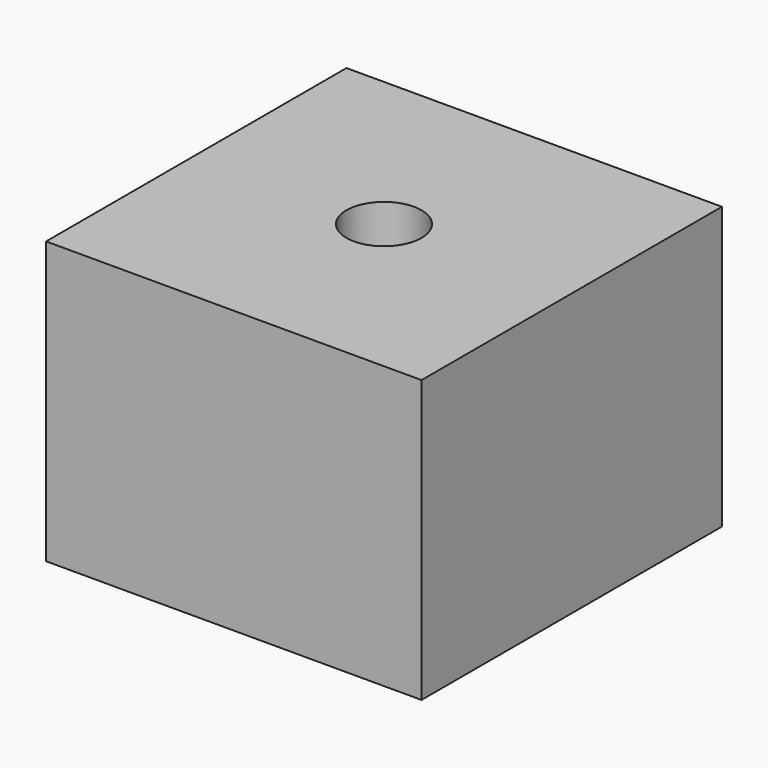
from build123d import *

# Parameters (mm, degrees)
CYLINDER_R     = 0.6
CYLINDER_DEPTH = 10
BOX008_W       = 6
BOX008_H       = 6
BOX008_DEPTH   = 4.5


with BuildPart() as hole:
    # Cylinder → Cylinder (new body)
    with BuildSketch(Plane.XY):
        Circle(CYLINDER_R)
    extrude(amount=CYLINDER_DEPTH)


with BuildPart() as stand_hole_cut:
    # Box008 → Box008 (new body)
    with BuildSketch(Plane(origin=(-3, -3, 0), x_dir=(1, 0, 0), z_dir=(0, 0, 1))):
        with Locations((3, 3)):
            Rectangle(BOX008_W, BOX008_H)
    extrude(amount=BOX008_DEPTH)

    # Cut003002: cut hole
    add(hole.part, mode=Mode.SUBTRACT)


solid = stand_hole_cut.part
